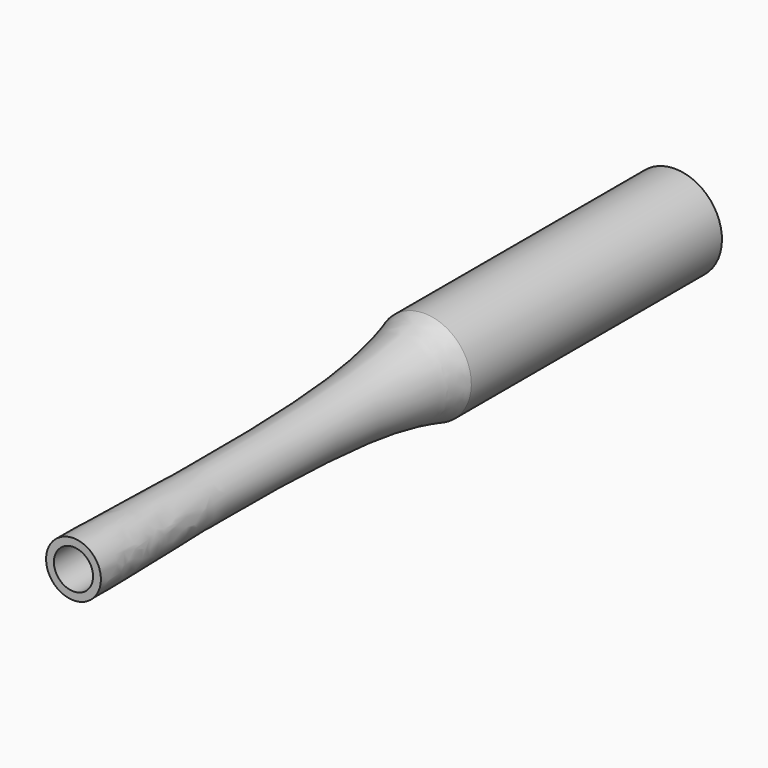
from build123d import *

# Parameters (mm, degrees)
F2_R     = 7.9375
F3_DEPTH = 304.801
F4_R     = 12.7
F5_DEPTH = 57.15
F6_R     = 11.90625
F7_DEPTH = 76.2


with BuildPart() as f1:
    # F0 (on Right) → F1 (revolve)
    with BuildSketch(Plane.YZ):
        with BuildLine():
            add(Edge.make_bspline(
                [(-304.8, 11.1125), (-285.75, 11.1125), (-242.2367029758, 9.5359179721), (-161.7897503824, 10.6315785702), (-135.382, 16.51), (-127, 19.05)],
                knots=[0, 0, 0, 0, 0.3497446097, 0.7455097749, 1, 1, 1, 1], degree=3))
            Line((-304.8, 11.1125), (-304.8, 0))
            Line((-304.8, 0), (0, 0))
            Line((0, 0), (0, 19.05))
            Line((0, 19.05), (-127, 19.05))
        make_face()
    revolve(axis=Axis((0, -152.4, 0), (0, 1, 0)))

    # F2 (on face) → F3 (cut, through all)
    with BuildSketch(Plane.XZ.offset(304.8)):
        Circle(F2_R)
    extrude(amount=-F3_DEPTH, mode=Mode.SUBTRACT)

    # F4 (on face) → F5 (cut)
    with BuildSketch(Plane(origin=(0, 0, 0), x_dir=(-1, 0, 0), z_dir=(0, 1, 0))):
        Circle(F4_R)
    extrude(amount=-F5_DEPTH, mode=Mode.SUBTRACT)

    # F6 (on face) → F7 (cut)
    with BuildSketch(Plane(origin=(0, -57.15, 0), x_dir=(-1, 0, 0), z_dir=(0, 1, 0))):
        Circle(F6_R)
    extrude(amount=-F7_DEPTH, mode=Mode.SUBTRACT)


solid = f1.part
